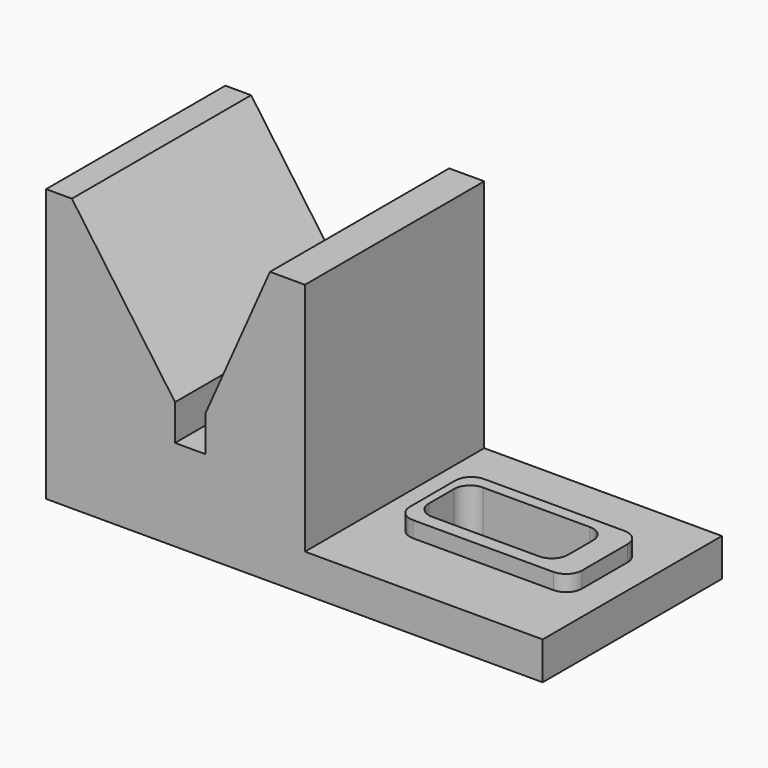
from build123d import *

# Parameters (mm, degrees)
F1_DEPTH = 70
F3_DEPTH = 5
F4_DEPTH = 25


with BuildPart() as f1:
    # F0 (on Front) → F1 (new body)
    with BuildSketch(Plane.XZ):
        Polygon((-54.826997, 51.085521), (-62.88556, 51.085521), (-62.88556, -34.104981), (92.241742, -34.104981), (92.241742, -22.304947), (17.98786, -22.304947), (17.98786, 51.085521), (7.051241, 51.085521), (-13.095161, 5.612212), (-13.095161, -5.612212), (-22.592751, -5.612212), (-22.592751, 5.612212), align=None)
    extrude(amount=F1_DEPTH)

    # F2 (on face) → F3 (join)
    with BuildSketch(Plane.XY.offset(-22.304947)):
        with BuildLine():
            Line((77.980134, -20.254048), (34.15819, -20.254048))
            ThreePointArc((34.15819, -20.254048), (30.622656, -21.718514), (29.15819, -25.254048))
            Line((29.15819, -25.254048), (29.15819, -43.014842))
            ThreePointArc((29.15819, -43.014842), (30.622656, -46.550376), (34.15819, -48.014842))
            Line((34.15819, -48.014842), (77.980134, -48.014842))
            ThreePointArc((77.980134, -48.014842), (81.515667, -46.550376), (82.980134, -43.014842))
            Line((82.980134, -43.014842), (82.980134, -25.254048))
            ThreePointArc((82.980134, -25.254048), (81.515667, -21.718514), (77.980134, -20.254048))
        make_face()
        with BuildLine():
            ThreePointArc((31.707652, -28.936601), (33.172118, -25.401067), (36.707652, -23.936601))
            Line((36.707652, -23.936601), (70.1474, -23.936601))
            ThreePointArc((70.1474, -23.936601), (73.682934, -25.401067), (75.1474, -28.936601))
            Line((75.1474, -28.936601), (75.1474, -38.765739))
            ThreePointArc((75.1474, -38.765739), (73.682934, -42.301273), (70.1474, -43.765739))
            Line((70.1474, -43.765739), (36.707652, -43.765739))
            ThreePointArc((36.707652, -43.765739), (33.172118, -42.301273), (31.707652, -38.765739))
            Line((31.707652, -38.765739), (31.707652, -28.936601))
        make_face(mode=Mode.SUBTRACT)
    extrude(amount=F3_DEPTH)

    # F3_face (on face) → F4 (cut)
    with BuildSketch(Plane(origin=(53.427526, -33.85117, -22.304947), x_dir=(1, 0, 0), z_dir=(0, 0, 1))):
        with BuildLine():
            Line((-21.719874, 4.914569), (-21.719874, -4.914569))
            ThreePointArc((-21.719874, -4.914569), (-20.255408, -8.450103), (-16.719874, -9.914569))
            Line((-16.719874, -9.914569), (16.719874, -9.914569))
            ThreePointArc((16.719874, -9.914569), (20.255408, -8.450103), (21.719874, -4.914569))
            Line((21.719874, -4.914569), (21.719874, 4.914569))
            ThreePointArc((21.719874, 4.914569), (20.255408, 8.450103), (16.719874, 9.914569))
            Line((16.719874, 9.914569), (-16.719874, 9.914569))
            ThreePointArc((-16.719874, 9.914569), (-20.255408, 8.450103), (-21.719874, 4.914569))
        make_face()
    extrude(amount=-F4_DEPTH, mode=Mode.SUBTRACT)


solid = f1.part
